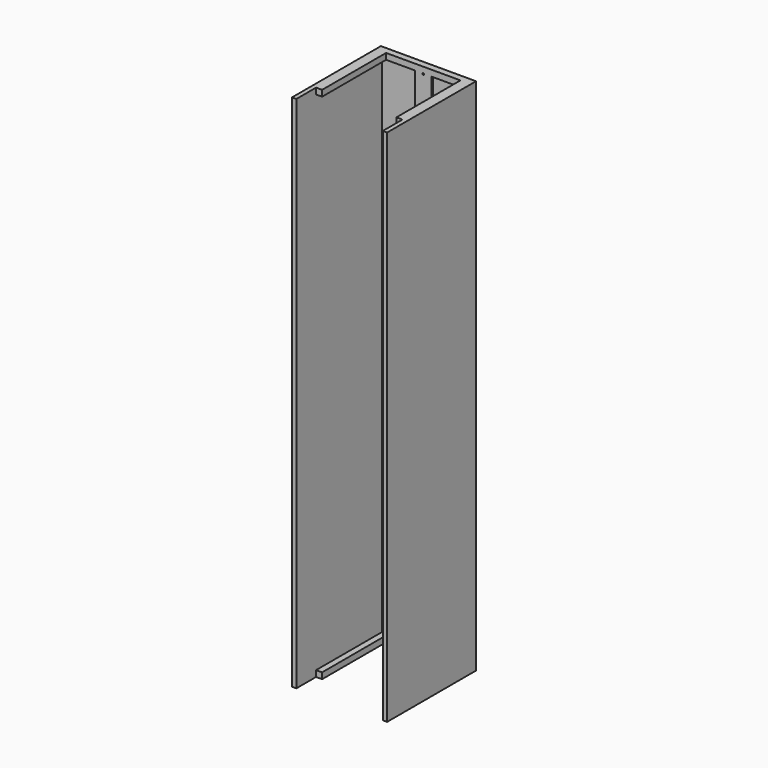
from build123d import *

# Parameters (mm, degrees)
CYLINDER002_R        = 0.5
CYLINDER002_DEPTH    = 0.5
CYLINDER003_R        = 0.2
CYLINDER003_DEPTH    = 10
FUSION002_ROLL_ANGLE = 90
CYLINDER_R           = 0.5
CYLINDER_DEPTH       = 0.5
CYLINDER001_R        = 0.2
CYLINDER001_DEPTH    = 10
FUSION001_ROLL_ANGLE = 90
PAD_DEPTH            = 120
PAD002_DEPTH         = 1.4
PAD001_DEPTH         = 1.4


with BuildPart() as cylinder002:
    # Cylinder002 → Cylinder002 (new body)
    with BuildSketch(Plane(origin=(0, 3, 0), x_dir=(1, 0, 0), z_dir=(0, 0, 1))):
        Circle(CYLINDER002_R)
    extrude(amount=CYLINDER002_DEPTH)


with BuildPart() as screwhole2:
    # Cylinder003 → Cylinder003 (new body)
    with BuildSketch(Plane(origin=(0, 3, 0), x_dir=(1, 0, 0), z_dir=(0, 0, 1))):
        Circle(CYLINDER003_R)
    extrude(amount=CYLINDER003_DEPTH)

    # Fusion002: union Cylinder002
    add(cylinder002.part)


with BuildPart() as screwhole2_1:
    # Fusion002 roll: moved
    add(screwhole2.part.rotate(Axis((0, 0, 0), (1, 0, 0)), FUSION002_ROLL_ANGLE))


with BuildPart() as screwhole2_2:
    # Fusion002 placement: moved
    add(screwhole2_1.part.moved(Location((10, 1, 115.5))))


with BuildPart() as cylinder:
    # Cylinder → Cylinder (new body)
    with BuildSketch(Plane(origin=(0, 3, 0), x_dir=(1, 0, 0), z_dir=(0, 0, 1))):
        Circle(CYLINDER_R)
    extrude(amount=CYLINDER_DEPTH)


with BuildPart() as screws:
    # Cylinder001 → Cylinder001 (new body)
    with BuildSketch(Plane(origin=(0, 3, 0), x_dir=(1, 0, 0), z_dir=(0, 0, 1))):
        Circle(CYLINDER001_R)
    extrude(amount=CYLINDER001_DEPTH)

    # Fusion001: union Cylinder
    add(cylinder.part)


with BuildPart() as screws_1:
    # Fusion001 roll: moved
    add(screws.part.rotate(Axis((0, 0, 0), (1, 0, 0)), FUSION001_ROLL_ANGLE))


with BuildPart() as screws_2:
    # Fusion001 placement: moved
    add(screws_1.part.moved(Location((10, 1, -1.5))))

    # Fusion003: union screwhole2
    add(screwhole2_2.part)


with BuildPart() as obj1:
    # Sketch → Pad (new body)
    with BuildSketch(Plane.XY):
        Polygon((-1, 1), (21, 1), (21, -24.7), (20, -24.7), (20, 0), (11.9, 0), (11.9, -0.5), (8.1, -0.5), (8.1, 0), (0, 0), (0, -24.7), (-1, -24.7), align=None)
    extrude(amount=PAD_DEPTH)


with BuildPart() as upper_slide:
    # Sketch002 → Pad002 (new body)
    with BuildSketch(Plane.XY.offset(118.6)):
        Polygon((0, 0), (20, 0), (20, -19), (18.6, -19), (18.6, -0.5), (1.4, -0.5), (1.4, -19), (0, -19), align=None)
    extrude(amount=PAD002_DEPTH)


with BuildPart() as obj2:
    # Sketch001 → Pad001 (new body)
    with BuildSketch(Plane.XY):
        Polygon((0, 0), (20, 0), (20, -19), (18.6, -19), (18.6, -0.5), (1.4, -0.5), (1.4, -19), (0, -19), align=None)
    extrude(amount=PAD001_DEPTH)

    # Fusion: union obj1, upper_slide
    add(obj1.part)
    add(upper_slide.part)

    # Cut: cut screws
    add(screws_2.part, mode=Mode.SUBTRACT)


solid = obj2.part
